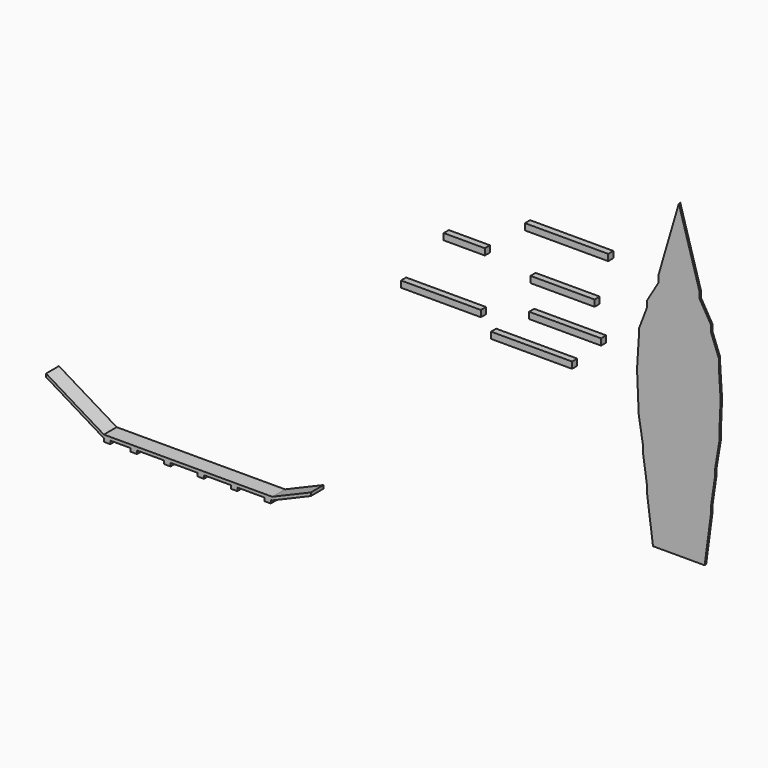
from build123d import *

# Parameters (mm, degrees)
F0_W     = 126.01
F0_H     = 10
F0_W_2   = 64
F0_W_3   = 124.27
F0_W_4   = 112.04
F0_W_5   = 99.78
F0_W_6   = 129.54
F1_DEPTH = 5
F2_DEPTH = 1.435
F0_W_7   = 10
F0_H_2   = 5
F3_DEPTH = 12.5


with BuildPart() as f1:
    # F0 (on Front) → F1 (new body, symmetric)
    with BuildSketch(Plane.XZ):
        with Locations((-226.313189, -24.522368)):
            Rectangle(F0_W, F0_H)
        with Locations((-331.014579, 86.545763)):
            Rectangle(F0_W_2, F0_H)
        with Locations((-367.336839, 0)):
            Rectangle(F0_W_3, F0_H)
        with Locations((-174.114093, 21.940574)):
            Rectangle(F0_W_4, F0_H)
        with Locations((-178.129405, 71.845211)):
            Rectangle(F0_W_5, F0_H)
        with Locations((-171.819627, 141.252816)):
            Rectangle(F0_W_6, F0_H)
    extrude(amount=F1_DEPTH, both=True)


with BuildPart() as f2:
    # F0 (on Front) → F2 (new body, symmetric)
    with BuildSketch(Plane.XZ):
        Polygon((-49.89, 89), (-62.135, 57), (62.135, 57), (49.89, 89), align=None)
        Polygon((0, 248.519108), (-32, 139.2), (32, 139.2), align=None)
        Polygon((-32, 129.2), (-49.89, 99), (49.89, 99), (32, 129.2), align=None)
        with Locations((0, 134.2)):
            Rectangle(F0_W_2, F0_H)
        with Locations((0, 94)):
            Rectangle(F0_W_5, F0_H)
        with Locations((0, 52)):
            Rectangle(F0_W_3, F0_H)
        Polygon((-62.135, 47), (-64.77, 5), (64.77, 5), (62.135, 47), align=None)
        with Locations((0, -52)):
            Rectangle(F0_W, F0_H)
        Polygon((64.77, -5), (-64.77, -5), (-63.005, -47), (63.005, -47), align=None)
        Polygon((63.005, -57), (-63.005, -57), (-56.02, -99), (56.02, -99), align=None)
        Rectangle(F0_W_6, F0_H)
        with Locations((0, -104)):
            Rectangle(F0_W_4, F0_H)
        Polygon((56.02, -109), (-56.02, -109), (-49.89, -151), (49.89, -151), align=None)
        with Locations((0, -156)):
            Rectangle(F0_W_5, F0_H)
        Polygon((49.89, -161), (-49.89, -161), (-40.185, -233.89), (40.185, -233.89), align=None)
    extrude(amount=F2_DEPTH, both=True)


with BuildPart() as f3:
    # F0 (on Front) → F3 (new body, symmetric)
    with BuildSketch(Plane.XZ):
        Polygon((-885.778965, -356.447093), (-885.778965, -351.447093), (-975.69295, -297.027561), (-975.69295, -302.027561), align=None)
        with Locations((-880.778965, -358.947093)):
            Rectangle(F0_W_7, F0_H_2)
        Polygon((-782.078965, -356.447093), (-754.778965, -356.447093), (-754.778965, -351.447093), (-885.778965, -351.447093), (-885.778965, -356.447093), (-875.778965, -356.447093), (-844.078965, -356.447093), (-834.078965, -356.447093), (-792.078965, -356.447093), align=None)
        with Locations((-839.078965, -358.947093)):
            Rectangle(F0_W_7, F0_H_2)
        with Locations((-787.078965, -358.947093)):
            Rectangle(F0_W_7, F0_H_2)
        with Locations((-735.078965, -358.947093)):
            Rectangle(F0_W_7, F0_H_2)
        with Locations((-683.078965, -358.947093)):
            Rectangle(F0_W_7, F0_H_2)
        with Locations((-631.078965, -358.947093)):
            Rectangle(F0_W_7, F0_H_2)
        Polygon((-754.778965, -351.447093), (-754.778965, -356.447093), (-740.078965, -356.447093), (-730.078965, -356.447093), (-688.078965, -356.447093), (-678.078965, -356.447093), (-636.078965, -356.447093), (-626.078965, -356.447093), (-623.778965, -356.447093), (-623.778965, -351.447093), align=None)
        Polygon((-563.780459, -325.979238), (-623.778965, -351.447093), (-623.778965, -356.447093), (-563.780459, -330.979238), align=None)
    extrude(amount=F3_DEPTH, both=True)


solid = Compound([f1.part, f2.part, f3.part])
